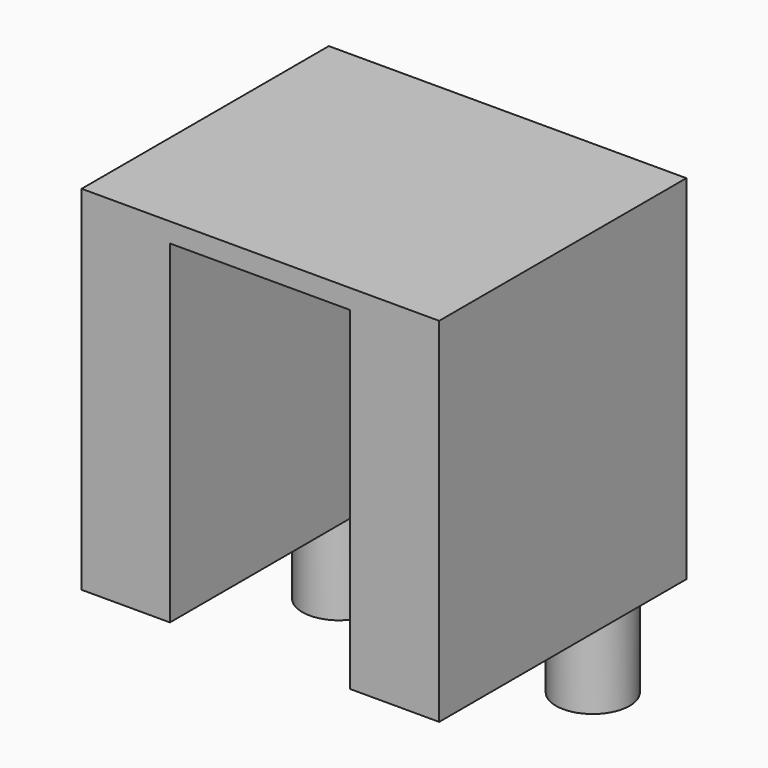
from build123d import *

# Parameters (mm, degrees)
CYLINDER001_R     = 2.5
CYLINDER001_DEPTH = 13
BOX_W             = 12.25
BOX_H             = 23.78
BOX_DEPTH         = 22.68
BOX002_W          = 24.3
BOX002_H          = 21
BOX002_DEPTH      = 24
CYLINDER_R        = 2.5
CYLINDER_DEPTH    = 13


with BuildPart() as cylinder001:
    # Cylinder001 → Cylinder001 (new body)
    with BuildSketch(Plane(origin=(14.74, 17.5, -6.5), x_dir=(1, 0, 0), z_dir=(0, 0, 1))):
        Circle(CYLINDER001_R)
    extrude(amount=CYLINDER001_DEPTH)


with BuildPart() as servo:
    # Box → Box (new body)
    with BuildSketch(Plane(origin=(0, -1, 0), x_dir=(1, 0, 0), z_dir=(0, 0, 1))):
        with Locations((6.125, 11.89)):
            Rectangle(BOX_W, BOX_H)
    extrude(amount=BOX_DEPTH)


with BuildPart() as cut:
    # Box002 → Box002 (new body)
    with BuildSketch(Plane(origin=(-6, 0, 0), x_dir=(1, 0, 0), z_dir=(0, 0, 1))):
        with Locations((12.15, 10.5)):
            Rectangle(BOX002_W, BOX002_H)
    extrude(amount=BOX002_DEPTH)

    # Cut: cut servo
    add(servo.part, mode=Mode.SUBTRACT)


with BuildPart() as fusion:
    # Cylinder → Cylinder (new body)
    with BuildSketch(Plane(origin=(-2.5, 17.5, -6.5), x_dir=(1, 0, 0), z_dir=(0, 0, 1))):
        Circle(CYLINDER_R)
    extrude(amount=CYLINDER_DEPTH)

    # Fusion: union Cylinder001, Cut
    add(cylinder001.part)
    add(cut.part)


solid = fusion.part
